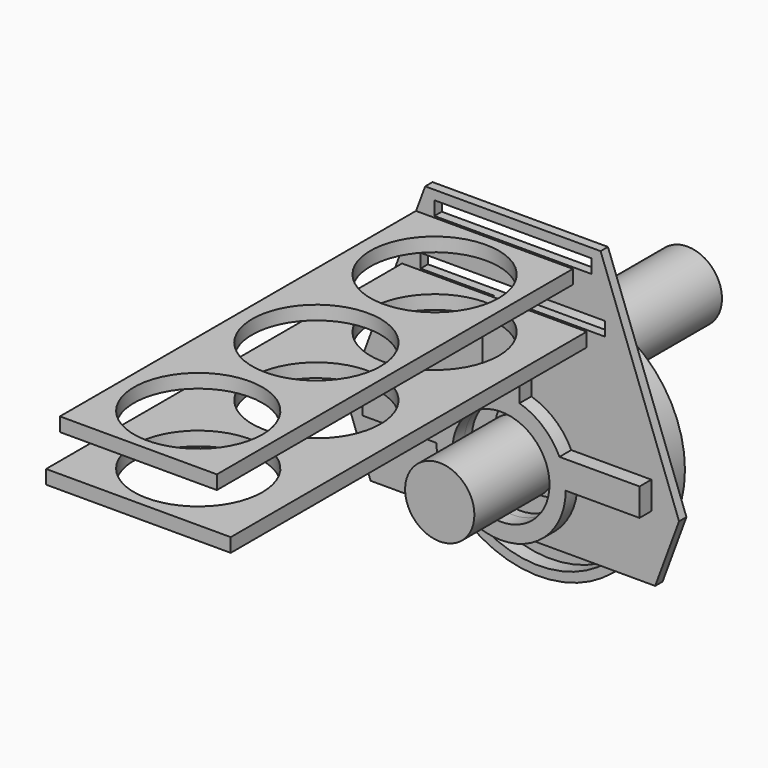
from build123d import *

# Parameters (mm, degrees)
F0_R      = 125
F1_DEPTH  = 41.75
F3_R      = 37.5
F4_DEPTH  = 109
F6_R      = 37.5
F7_DEPTH  = 134.5
F9_DEPTH  = 10
F10_R     = 52.5
F11_DEPTH = 16
F13_W     = 170
F13_H     = 15
F14_DEPTH = 482
F13_W_2   = 200
F15_R     = 69.5
F16_DEPTH = 100
F17_R     = 115
F17_R_2   = 47.5
F18_DEPTH = 16
F19_SIZE  = 5


with BuildPart() as f1:
    # F0 (on Front) → F1 (new body)
    with BuildSketch(Plane.XZ):
        Circle(F0_R)
        with BuildLine():
            ThreePointArc((36.1296990006, 59.9553571429), (60.9470217896, 34.4305174951), (70, 0))
            ThreePointArc((70, 0), (-34.4305174951, -60.9470217896), (-36.1296990006, 59.9553571429))
            ThreePointArc((-36.1296990006, 59.9553571429), (-5.0688404728, 107.1558455194), (37.5, 70))
            ThreePointArc((37.5, 70), (37.1558455194, 64.9311595272), (36.1296990006, 59.9553571429))
        make_face(mode=Mode.SUBTRACT)
        with BuildLine():
            ThreePointArc((-36.1296990006, 59.9553571429), (-34.4305174951, -60.9470217896), (70, 0))
            ThreePointArc((70, 0), (60.9470217896, 34.4305174951), (36.1296990006, 59.9553571429))
            ThreePointArc((36.1296990006, 59.9553571429), (27.7587685144, 44.7868928816), (13.4629120178, 35))
            ThreePointArc((13.4629120178, 35), (30.912046201, 21.2295878355), (37.5, 0))
            ThreePointArc((37.5, 0), (-21.2295878355, -30.912046201), (-13.4629120178, 35))
            ThreePointArc((-13.4629120178, 35), (-27.7587685144, 44.7868928816), (-36.1296990006, 59.9553571429))
        make_face()
    extrude(amount=-F1_DEPTH)

    # F17 (on face) → F18 (cut)
    with BuildSketch(Plane.XZ):
        Circle(F17_R)
        with BuildLine():
            ThreePointArc((37.5, 70), (37.1558455194, 64.9311595272), (36.1296990006, 59.9553571429))
            ThreePointArc((36.1296990006, 59.9553571429), (60.9470217896, 34.4305174951), (70, 0))
            ThreePointArc((70, 0), (-34.4305174951, -60.9470217896), (-36.1296990006, 59.9553571429))
            ThreePointArc((-36.1296990006, 59.9553571429), (-5.0688404728, 107.1558455194), (37.5, 70))
        make_face(mode=Mode.SUBTRACT)
        with BuildLine():
            ThreePointArc((70, 0), (60.9470217896, 34.4305174951), (36.1296990006, 59.9553571429))
            ThreePointArc((36.1296990006, 59.9553571429), (37.1558455194, 64.9311595272), (37.5, 70))
            ThreePointArc((37.5, 70), (-5.0688404728, 107.1558455194), (-36.1296990006, 59.9553571429))
            ThreePointArc((-36.1296990006, 59.9553571429), (-34.4305174951, -60.9470217896), (70, 0))
        make_face()
        Circle(F17_R_2, mode=Mode.SUBTRACT)
    extrude(amount=-F18_DEPTH, mode=Mode.SUBTRACT)

    # F19
    f19_edges = [f1.edges().sort_by_distance(p)[0] for p in [
        (0, 16, -47.5),
    ]]
    chamfer(f19_edges, length=F19_SIZE)


with BuildPart() as f4:
    # F3 (on offset) → F4 (new body)
    with BuildSketch(Plane.XZ.offset(25)):
        Circle(F3_R)
    extrude(amount=F4_DEPTH)


with BuildPart() as f7:
    # F6 (on offset) → F7 (new body)
    with BuildSketch(Plane(origin=(0, 66.75, 0), x_dir=(-1, 0, 0), z_dir=(0, 1, 0))):
        with Locations((0, 70)):
            Circle(F6_R)
    extrude(amount=F7_DEPTH)


with BuildPart() as f9:
    # F8 (on offset) → F9 (new body)
    with BuildSketch(Plane.XZ.offset(25)):
        with BuildLine():
            ThreePointArc((0, -52.5), (-37.1231060123, 37.1231060123), (52.5, 0))
            Line((52.5, 0), (180, 0))
            Line((180, 0), (95, 230))
            Line((95, 230), (0, 230))
            Line((0, 230), (-95, 230))
            Line((-95, 230), (-180, 0))
            Line((-180, 0), (-154.1304347826, -70))
            Line((-154.1304347826, -70), (0, -70))
            Line((0, -70), (0, -52.5))
        make_face()
        Polygon((-100, 165), (0, 165), (100, 165), (100, 150), (0, 150), (-100, 150), align=None, mode=Mode.SUBTRACT)
        Polygon((-85, 220), (0, 220), (85, 220), (85, 205), (0, 205), (-85, 205), align=None, mode=Mode.SUBTRACT)
        with BuildLine():
            Line((180, 0), (52.5, 0))
            ThreePointArc((52.5, 0), (37.1231060123, -37.1231060123), (0, -52.5))
            Line((0, -52.5), (0, -70))
            Line((0, -70), (154.1304347826, -70))
            Line((154.1304347826, -70), (180, 0))
        make_face()
    extrude(amount=F9_DEPTH)

    # F10 (on face) → F11 (join)
    with BuildSketch(Plane.XZ.offset(35)):
        with BuildLine():
            ThreePointArc((-20, 67.082039325), (-10.1058707505, 69.2666685815), (0, 70))
            Line((0, 70), (0, 150))
            Line((0, 150), (-20, 150))
            Line((-20, 150), (-20, 67.082039325))
        make_face()
        with BuildLine():
            ThreePointArc((0, 70), (10.1058707505, 69.2666685815), (20, 67.082039325))
            Line((20, 67.082039325), (20, 150))
            Line((20, 150), (0, 150))
            Line((0, 150), (0, 70))
        make_face()
        with BuildLine():
            ThreePointArc((1.627e-07, -70), (49.4974747406, -49.4974746255), (70, 0))
            ThreePointArc((70, 0), (68.2905144373, 15.3754882161), (63.2455532034, 30))
            ThreePointArc((63.2455532034, 30), (45.5656113989, 53.1392045277), (20, 67.082039325))
            ThreePointArc((20, 67.082039325), (10.1058707505, 69.2666685815), (0, 70))
            ThreePointArc((0, 70), (-10.1058707505, 69.2666685815), (-20, 67.082039325))
            ThreePointArc((-20, 67.082039325), (-45.5656113989, 53.1392045277), (-63.2455532034, 30))
            ThreePointArc((-63.2455532034, 30), (-68.2905144373, 15.3754882161), (-70, 0))
            ThreePointArc((-70, 0), (-49.4974746255, -49.4974747406), (1.627e-07, -70))
        make_face()
        Circle(F10_R, mode=Mode.SUBTRACT)
        with BuildLine():
            ThreePointArc((63.2455532034, 30), (68.2905144373, 15.3754882161), (70, 0))
            Line((70, 0), (150, 0))
            Line((150, 0), (150, 30))
            Line((150, 30), (63.2455532034, 30))
        make_face()
        with BuildLine():
            Line((-150, 0), (-70, 0))
            ThreePointArc((-70, 0), (-68.2905144373, 15.3754882161), (-63.2455532034, 30))
            Line((-63.2455532034, 30), (-150, 30))
            Line((-150, 30), (-150, 0))
        make_face()
    extrude(amount=F11_DEPTH)


with BuildPart() as f14:
    # F13 (on offset) → F14 (new body)
    with BuildSketch(Plane.XZ.offset(60)):
        with Locations((0, 212.5)):
            Rectangle(F13_W, F13_H)
    extrude(amount=F14_DEPTH)


with BuildPart() as f14b:
    # F13 (on offset) → F14, piece 2 (new body)
    with BuildSketch(Plane.XZ.offset(60)):
        with Locations((0, 157.5)):
            Rectangle(F13_W_2, F13_H)
    extrude(amount=F14_DEPTH)


with BuildPart() as f16_tool:
    # F15 (on face) → F16 (new body)
    with BuildSketch(Plane.XY.offset(220)):
        with Locations((0, -461)):
            Circle(F15_R)
        with Locations((0, -301)):
            Circle(F15_R)
        with Locations((0, -141)):
            Circle(F15_R)
    extrude(amount=-F16_DEPTH)


with BuildPart() as f14_1:
    add(f14.part)

    # F16: cut by f16_tool
    add(f16_tool.part, mode=Mode.SUBTRACT)


with BuildPart() as f14b_1:
    add(f14b.part)

    # F16: cut by f16_tool
    add(f16_tool.part, mode=Mode.SUBTRACT)


solid = Compound([f1.part, f4.part, f7.part, f9.part, f14_1.part, f14b_1.part])
